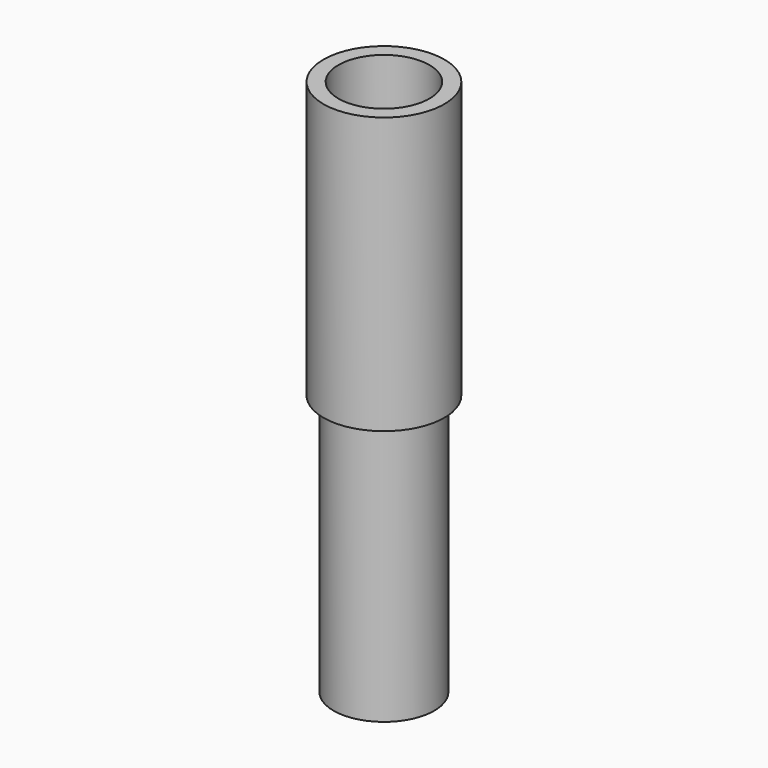
from build123d import *

# Parameters (mm, degrees)
SKETCH_R     = 5.75
SKETCH_R_2   = 4.75
PAD_DEPTH    = 35
CHAMFER_SIZE = 1.3


with BuildPart() as body:
    # Sketch → Pad (new body)
    with BuildSketch(Plane.XY):
        Circle(SKETCH_R)
        Circle(SKETCH_R_2, mode=Mode.SUBTRACT)
    extrude(amount=PAD_DEPTH)


with BuildPart() as body001:
    # Sketch003 → Revolution (revolve)
    with BuildSketch(Plane.XZ):
        Polygon((-6.75, 35), (-6.75, 0), (-4.75, 0), (-4.75, 37), (-6.1, 37), (-6.1, 72), (-8.1, 72), (-8.1, 35), align=None)
    revolve(axis=Axis((0, 0, 0), (0, 0, 1)))

    # Chamfer
    chamfer_edges = [body001.edges().sort_by_distance(p)[0] for p in [
        (6.1, 0, 37),
    ]]
    chamfer(chamfer_edges, length=CHAMFER_SIZE)


solid = Compound([body.part, body001.part])
